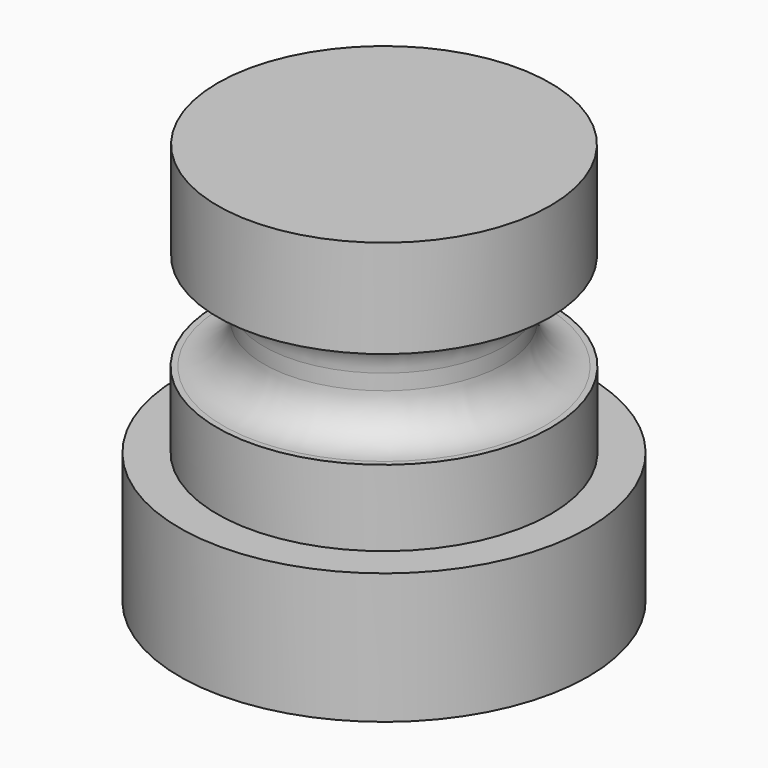
from build123d import *

# Parameters (mm, degrees)
F0_R     = 12.5
F0_R_2   = 10.2
F0_R_3   = 7.35
F1_DEPTH = 8
F2_DEPTH = 12.65
F3_DEPTH = 18.6
F4_R     = 10.175
F5_DEPTH = 6
F6_R     = 2.5
F7_R     = 2.5


with BuildPart() as f1:
    # F0 (on Top) → F1 (new body)
    with BuildSketch(Plane.XY):
        Circle(F0_R)
        Circle(F0_R_2, mode=Mode.SUBTRACT)
        Circle(F0_R_2)
        Circle(F0_R_3, mode=Mode.SUBTRACT)
        Circle(F0_R_3)
        with BuildLine():
            ThreePointArc((1.5, 5.4213121106), (5.5460137346, 0.9393384136), (3.2015621187, -4.625))
            Line((3.2015621187, -4.625), (-3.2015621187, -4.625))
            ThreePointArc((-3.2015621187, -4.625), (-5.5460137346, 0.9393384136), (-1.5, 5.4213121106))
            Line((-1.5, 5.4213121106), (-1.5, 4.625))
            Line((-1.5, 4.625), (1.5, 4.625))
            Line((1.5, 4.625), (1.5, 5.4213121106))
        make_face(mode=Mode.SUBTRACT)
    extrude(amount=F1_DEPTH)

    # F0 (on Top) → F2 (join)
    with BuildSketch(Plane.XY):
        Circle(F0_R_2)
        Circle(F0_R_3, mode=Mode.SUBTRACT)
        Circle(F0_R_3)
        with BuildLine():
            ThreePointArc((1.5, 5.4213121106), (5.5460137346, 0.9393384136), (3.2015621187, -4.625))
            Line((3.2015621187, -4.625), (-3.2015621187, -4.625))
            ThreePointArc((-3.2015621187, -4.625), (-5.5460137346, 0.9393384136), (-1.5, 5.4213121106))
            Line((-1.5, 5.4213121106), (-1.5, 4.625))
            Line((-1.5, 4.625), (1.5, 4.625))
            Line((1.5, 4.625), (1.5, 5.4213121106))
        make_face(mode=Mode.SUBTRACT)
    extrude(amount=F2_DEPTH)

    # F0 (on Top) → F3 (join)
    with BuildSketch(Plane.XY):
        Circle(F0_R_3)
        with BuildLine():
            ThreePointArc((1.5, 5.4213121106), (5.5460137346, 0.9393384136), (3.2015621187, -4.625))
            Line((3.2015621187, -4.625), (-3.2015621187, -4.625))
            ThreePointArc((-3.2015621187, -4.625), (-5.5460137346, 0.9393384136), (-1.5, 5.4213121106))
            Line((-1.5, 5.4213121106), (-1.5, 4.625))
            Line((-1.5, 4.625), (1.5, 4.625))
            Line((1.5, 4.625), (1.5, 5.4213121106))
        make_face(mode=Mode.SUBTRACT)
    extrude(amount=F3_DEPTH)

    # F4 (on face) → F5 (join)
    with BuildSketch(Plane.XY.offset(18.6)):
        Circle(F4_R)
    extrude(amount=F5_DEPTH)

    # F6
    f6_edges = [f1.edges().sort_by_distance(p)[0] for p in [
        (-7.35, 0, 12.65),
    ]]
    fillet(f6_edges, radius=F6_R)

    # F7
    f7_edges = [f1.edges().sort_by_distance(p)[0] for p in [
        (-7.35, 0, 18.6),
    ]]
    fillet(f7_edges, radius=F7_R)


solid = f1.part
